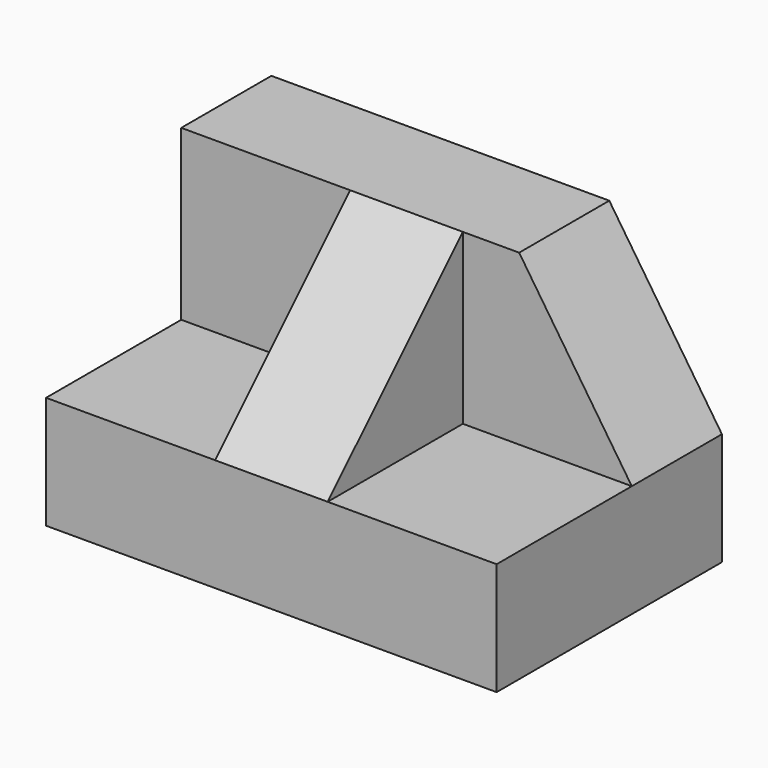
from build123d import *

# Parameters (mm, degrees)
F0_W     = 31.75
F0_H     = 31.75
F1_DEPTH = 50.8
F2_W     = 50.8
F2_H     = 19.05
F3_DEPTH = 19.05
F5_DEPTH = 12.7
F6_W     = 12.7
F6_H     = 19.05
F7_DEPTH = 19.05
F9_DEPTH = 12.7


with BuildPart() as f1:
    # F0 (on Right) → F1 (new body)
    with BuildSketch(Plane.YZ):
        with Locations((-35.940039, 28.318526)):
            Rectangle(F0_W, F0_H)
    extrude(amount=F1_DEPTH)

    # F2 (on face) → F3 (cut)
    with BuildSketch(Plane.XZ.offset(51.815039)):
        with Locations((25.4, 34.668526)):
            Rectangle(F2_W, F2_H)
    extrude(amount=-F3_DEPTH, mode=Mode.SUBTRACT)

    # F4 (on face) → F5 (cut)
    with BuildSketch(Plane.XZ.offset(32.765039)):
        Polygon((50.8, 25.143526), (50.8, 44.193526), (38.1, 44.193526), align=None)
    extrude(amount=-F5_DEPTH, mode=Mode.SUBTRACT)

    # F6 (on face) → F7 (join)
    with BuildSketch(Plane.XY.offset(44.193526)):
        with Locations((25.4, -42.290039)):
            Rectangle(F6_W, F6_H)
    extrude(amount=-F7_DEPTH)

    # F8 (on face) → F9 (cut)
    with BuildSketch(Plane(origin=(19.05, 0, 0), x_dir=(0, -1, 0), z_dir=(-1, 0, 0))):
        Polygon((51.815039, 44.193526), (32.765039, 44.193526), (51.815039, 25.143526), align=None)
    extrude(amount=-F9_DEPTH, mode=Mode.SUBTRACT)


solid = f1.part
